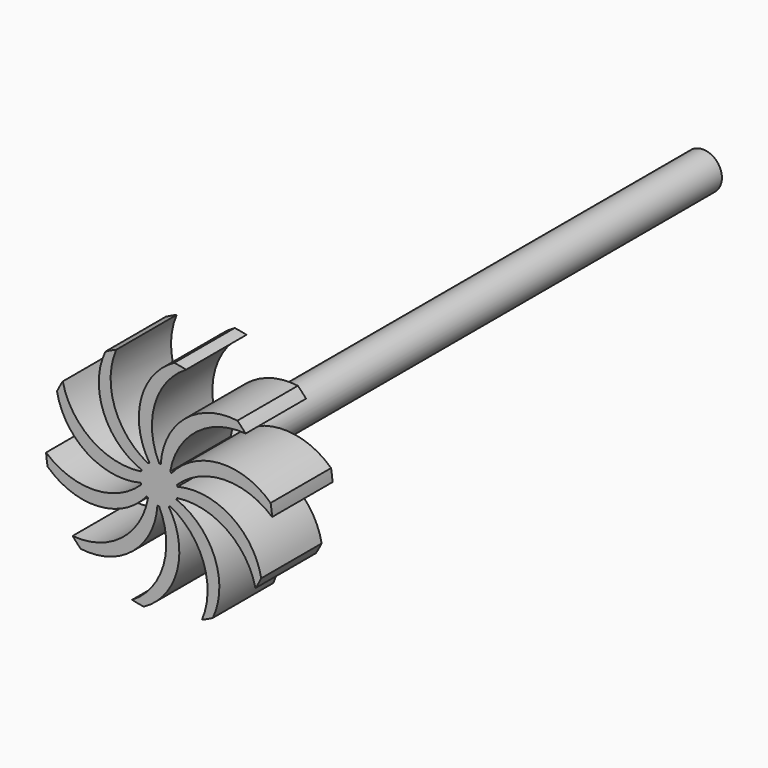
from build123d import *

# Parameters (mm, degrees)
F0_R     = 3.175
F1_DEPTH = 101.6
F3_DEPTH = 12.7


with BuildPart() as f1:
    # F0 (on Front) → F1 (new body)
    with BuildSketch(Plane.XZ):
        Circle(F0_R)
    extrude(amount=F1_DEPTH)

    # F2 (on face) → F3 (join)
    with BuildSketch(Plane.XZ.offset(101.6)):
        with BuildLine():
            ThreePointArc((0, 3.175), (-0.717894, 11.721662), (4.533669, 18.502658))
            ThreePointArc((4.533669, 18.502658), (3.549938, 18.716315), (2.556295, 18.877708))
            ThreePointArc((2.556295, 18.877708), (-3.036137, 11.70738), (-1.6328, 2.722974))
            ThreePointArc((-1.6328, 2.722974), (-0.847108, 3.059907), (0, 3.175))
        make_face()
        with BuildLine():
            ThreePointArc((1.866218, 2.568629), (6.309032, 9.904992), (14.543404, 12.304141))
            ThreePointArc((14.543404, 12.304141), (13.873134, 13.055215), (13.164125, 13.769834))
            ThreePointArc((13.164125, 13.769834), (4.425139, 11.256066), (0.279561, 3.162668))
            ThreePointArc((0.279561, 3.162668), (1.113244, 2.973434), (1.866218, 2.568629))
        make_face()
        with BuildLine():
            ThreePointArc((3.019604, 0.981129), (10.926122, 4.304951), (18.998054, 1.405861))
            ThreePointArc((18.998054, 1.405861), (18.897264, 2.407467), (18.743706, 3.402351))
            ThreePointArc((18.743706, 3.402351), (10.196162, 6.505317), (2.085139, 2.394331))
            ThreePointArc((2.085139, 2.394331), (2.648374, 1.751211), (3.019604, 0.981129))
        make_face()
        with BuildLine():
            ThreePointArc((16.196093, -10.029411), (16.703282, -9.159851), (17.163828, -8.264714))
            ThreePointArc((17.163828, -8.264714), (12.072598, -0.730242), (3.094265, 0.71144))
            ThreePointArc((3.094265, 0.71144), (3.154752, 0.358003), (3.175, 0))
            ThreePointArc((3.175, 0), (3.13591, -0.496679), (3.019604, -0.981129))
            ThreePointArc((3.019604, -0.981129), (11.369805, -2.939435), (16.196093, -10.029411))
        make_face()
        with BuildLine():
            ThreePointArc((-4.533669, -18.502658), (-3.549938, -18.716315), (-2.556295, -18.877708))
            ThreePointArc((-2.556295, -18.877708), (3.036137, -11.70738), (1.6328, -2.722974))
            ThreePointArc((1.6328, -2.722974), (0.847108, -3.059907), (0, -3.175))
            ThreePointArc((0, -3.175), (0.717894, -11.721662), (-4.533669, -18.502658))
        make_face()
        with BuildLine():
            ThreePointArc((7.207774, -17.633788), (8.129213, -17.228418), (9.027952, -16.774939))
            ThreePointArc((9.027952, -16.774939), (9.337711, -7.686873), (2.921487, -1.243196))
            ThreePointArc((2.921487, -1.243196), (2.483893, -1.9776), (1.866218, -2.568629))
            ThreePointArc((1.866218, -2.568629), (7.470609, -9.061056), (7.207774, -17.633788))
        make_face()
        with BuildLine():
            ThreePointArc((-14.543404, -12.304141), (-13.873134, -13.055215), (-13.164125, -13.769834))
            ThreePointArc((-13.164125, -13.769834), (-4.425139, -11.256066), (-0.279561, -3.162668))
            ThreePointArc((-0.279561, -3.162668), (-1.113244, -2.973434), (-1.866218, -2.568629))
            ThreePointArc((-1.866218, -2.568629), (-6.309032, -9.904992), (-14.543404, -12.304141))
        make_face()
        with BuildLine():
            ThreePointArc((-18.998054, -1.405861), (-18.897264, -2.407467), (-18.743706, -3.402351))
            ThreePointArc((-18.743706, -3.402351), (-10.196162, -6.505317), (-2.085139, -2.394331))
            ThreePointArc((-2.085139, -2.394331), (-2.648374, -1.751211), (-3.019604, -0.981129))
            ThreePointArc((-3.019604, -0.981129), (-10.926122, -4.304951), (-18.998054, -1.405861))
        make_face()
        with BuildLine():
            ThreePointArc((-3.019604, 0.981129), (-11.369805, 2.939435), (-16.196093, 10.029411))
            ThreePointArc((-16.196093, 10.029411), (-16.703282, 9.159851), (-17.163828, 8.264714))
            ThreePointArc((-17.163828, 8.264714), (-12.072598, 0.730242), (-3.094265, -0.71144))
            ThreePointArc((-3.094265, -0.71144), (-3.171916, 0.139916), (-3.019604, 0.981129))
        make_face()
        with BuildLine():
            ThreePointArc((-1.866218, 2.568629), (-7.470609, 9.061056), (-7.207774, 17.633788))
            ThreePointArc((-7.207774, 17.633788), (-8.129213, 17.228418), (-9.027952, 16.774939))
            ThreePointArc((-9.027952, 16.774939), (-9.337711, 7.686873), (-2.921487, 1.243196))
            ThreePointArc((-2.921487, 1.243196), (-2.483893, 1.9776), (-1.866218, 2.568629))
        make_face()
        with BuildLine():
            ThreePointArc((3.094265, 0.71144), (3.059907, 0.847108), (3.019604, 0.981129))
            ThreePointArc((3.019604, 0.981129), (2.648374, 1.751211), (2.085139, 2.394331))
            ThreePointArc((2.085139, 2.394331), (1.9776, 2.483893), (1.866218, 2.568629))
            ThreePointArc((1.866218, 2.568629), (1.113244, 2.973434), (0.279561, 3.162668))
            ThreePointArc((0.279561, 3.162668), (0.139916, 3.171916), (0, 3.175))
            ThreePointArc((0, 3.175), (-0.847108, 3.059907), (-1.6328, 2.722974))
            ThreePointArc((-1.6328, 2.722974), (-1.751211, 2.648374), (-1.866218, 2.568629))
            ThreePointArc((-1.866218, 2.568629), (-2.483893, 1.9776), (-2.921487, 1.243196))
            ThreePointArc((-2.921487, 1.243196), (-2.973434, 1.113244), (-3.019604, 0.981129))
            ThreePointArc((-3.019604, 0.981129), (-3.171916, 0.139916), (-3.094265, -0.71144))
            ThreePointArc((-3.094265, -0.71144), (-3.059907, -0.847108), (-3.019604, -0.981129))
            ThreePointArc((-3.019604, -0.981129), (-2.648374, -1.751211), (-2.085139, -2.394331))
            ThreePointArc((-2.085139, -2.394331), (-1.9776, -2.483893), (-1.866218, -2.568629))
            ThreePointArc((-1.866218, -2.568629), (-1.113244, -2.973434), (-0.279561, -3.162668))
            ThreePointArc((-0.279561, -3.162668), (-0.139916, -3.171916), (0, -3.175))
            ThreePointArc((0, -3.175), (0.847108, -3.059907), (1.6328, -2.722974))
            ThreePointArc((1.6328, -2.722974), (1.751211, -2.648374), (1.866218, -2.568629))
            ThreePointArc((1.866218, -2.568629), (2.483893, -1.9776), (2.921487, -1.243196))
            ThreePointArc((2.921487, -1.243196), (2.973434, -1.113244), (3.019604, -0.981129))
            ThreePointArc((3.019604, -0.981129), (3.13591, -0.496679), (3.175, 0))
            ThreePointArc((3.175, 0), (3.154752, 0.358003), (3.094265, 0.71144))
        make_face()
    extrude(amount=F3_DEPTH)


solid = f1.part
